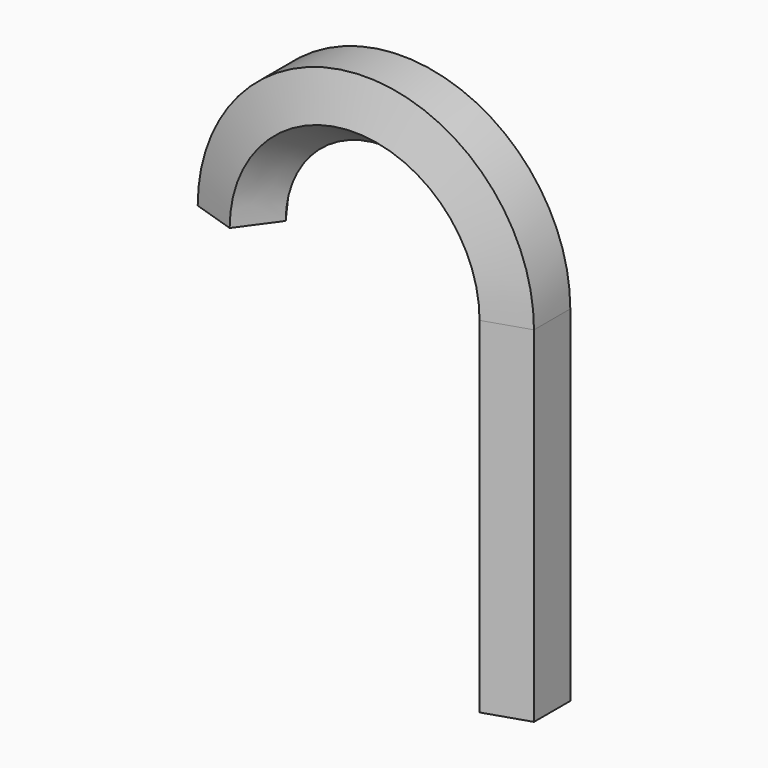
from build123d import *


with BuildPart() as f2:
    # F2: sweep along a path in F0
    with BuildLine(Plane.XZ) as f2_path:
        Line((0, 0), (0, 76.2))
        ThreePointArc((0, 76.2), (-30.221468, 106.421468), (-60.442936, 76.2))
    # F1 (on Top) → F2 (sweep)
    with BuildSketch(Plane.XY):
        Polygon((6.897414, -5.011265), (6.897414, 5.011265), (-2.634578, 8.108397), (-8.525673, 0), (-2.634578, -8.108397), align=None)
    sweep(path=f2_path.line)


solid = f2.part
